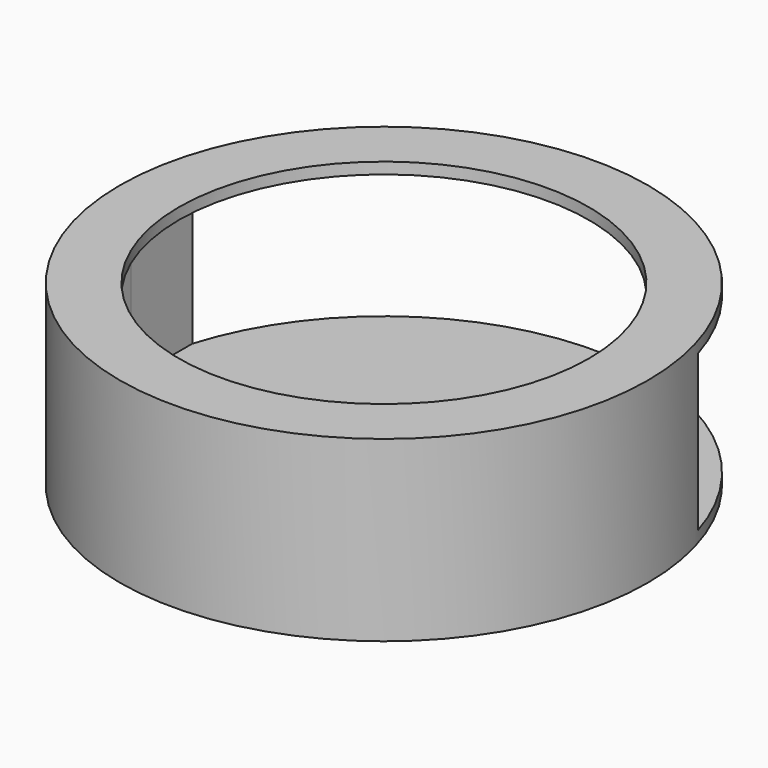
from build123d import *

# Parameters (mm, degrees)
SKETCH_R      = 37.35
PAD_DEPTH     = 23.6
THICKNESS_T   = -1.6
SKETCH001_R   = 37.35
SKETCH001_R_2 = 29
PAD001_DEPTH  = 1.6
SKETCH002_W   = 71.5
SKETCH002_H   = 22
POCKET_DEPTH  = 50


with BuildPart() as part:
    # Sketch → Pad (new body)
    with BuildSketch(Plane.XY):
        Circle(SKETCH_R)
    extrude(amount=PAD_DEPTH)

    # Thickness
    thickness_openings = [part.faces().sort_by_distance(p)[0] for p in [
        (0, 0, 23.6),
    ]]
    offset(amount=THICKNESS_T, openings=thickness_openings)

    # Sketch001 (on Face3 of Thickness) → Pad001 (join)
    with BuildSketch(Plane.XY.offset(23.6)):
        Circle(SKETCH001_R)
        Circle(SKETCH001_R_2, mode=Mode.SUBTRACT)
    extrude(amount=PAD001_DEPTH)

    # Sketch002 → Pocket (cut)
    with BuildSketch(Plane.XZ):
        with Locations((0, 12.6)):
            Rectangle(SKETCH002_W, SKETCH002_H)
    extrude(amount=-POCKET_DEPTH, mode=Mode.SUBTRACT)


solid = part.part
